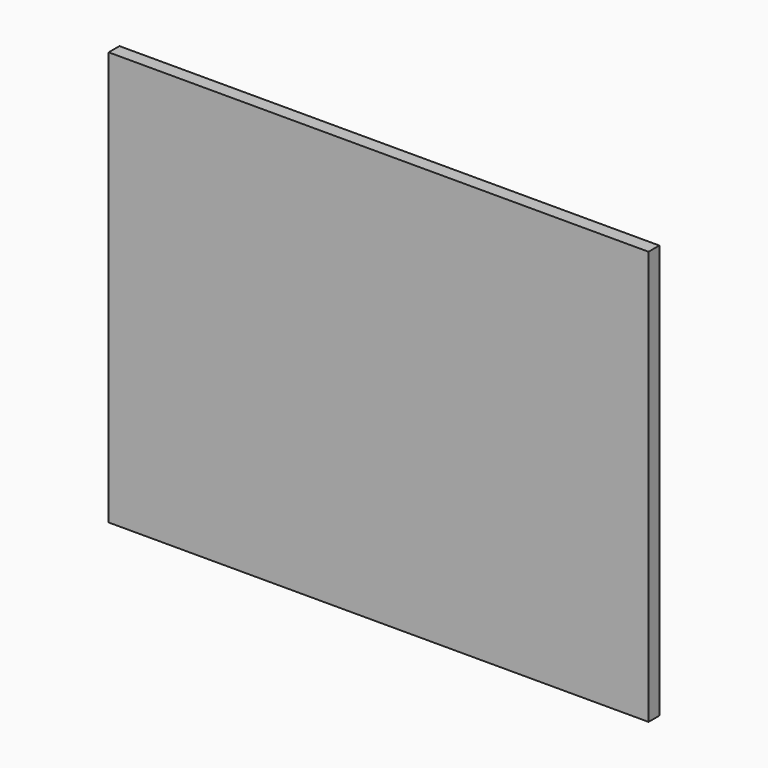
from build123d import *

# Parameters (mm, degrees)
SKETCH_W  = 600
SKETCH_H  = 460
PAD_DEPTH = 15


with BuildPart() as part:
    # Sketch → Pad (new body)
    with BuildSketch(Plane.XZ):
        with Locations((300, 230)):
            Rectangle(SKETCH_W, SKETCH_H)
    extrude(amount=PAD_DEPTH)


solid = part.part
